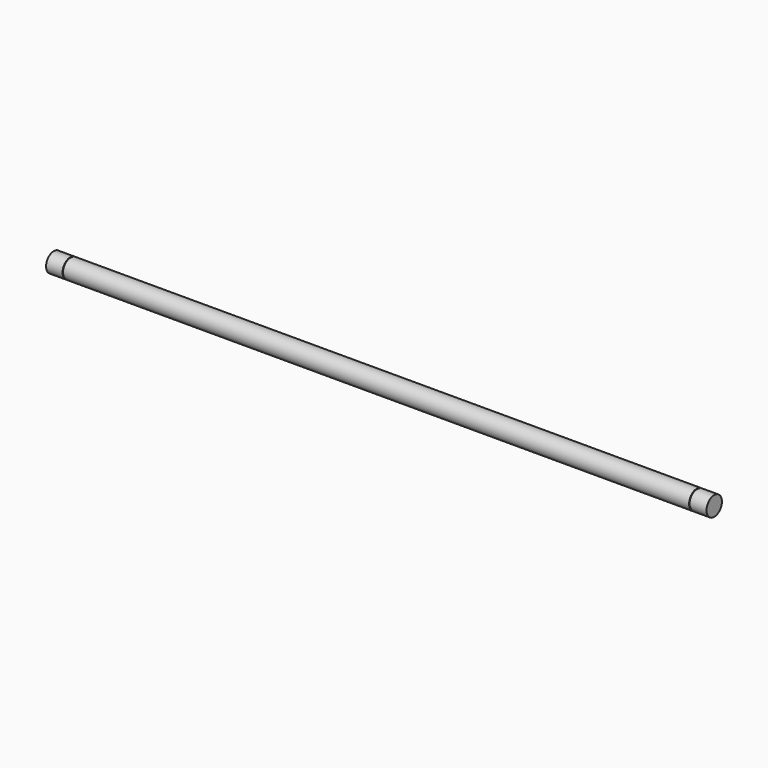
from build123d import *

# Parameters (mm, degrees)
F0_R     = 17.5
F1_DEPTH = 1200
F2_W     = 1.6
F2_H     = 1


with BuildPart() as f1:
    # F0 (on Right) → F1 (new body)
    with BuildSketch(Plane.YZ):
        Circle(F0_R)
    extrude(amount=-F1_DEPTH)

    # F2 (on Front) → F3 (revolve, cut)
    with BuildSketch(Plane.XZ):
        with Locations((-30.8, 17)):
            Rectangle(F2_W, F2_H)
        with Locations((-1169.2, 17)):
            Rectangle(F2_W, F2_H)
    revolve(axis=Axis((-600, 0, 0), (-1, 0, 0)), mode=Mode.SUBTRACT)


solid = f1.part
